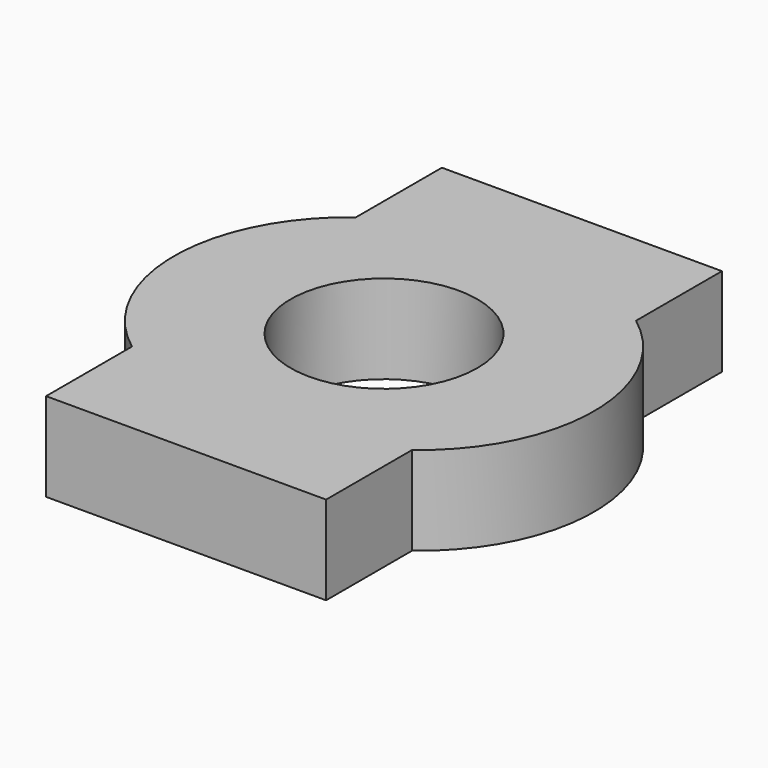
from build123d import *

# Parameters (mm, degrees)
SKETCH_R  = 2
PAD_DEPTH = 1.9


with BuildPart() as part:
    # Sketch → Pad (new body)
    with BuildSketch(Plane.XY):
        with BuildLine():
            ThreePointArc((3, -3), (4.5, 0), (3, 3))
            Line((3, 3), (3, 5.3))
            Line((-3, 5.3), (3, 5.3))
            Line((-3, 3), (-3, 5.3))
            ThreePointArc((-3, 3), (-4.5, 0), (-3, -3))
            Line((-3, -3), (-3, -5.3))
            Line((3, -5.3), (-3, -5.3))
            Line((3, -3), (3, -5.3))
        make_face()
        Circle(SKETCH_R, mode=Mode.SUBTRACT)
    extrude(amount=PAD_DEPTH)


solid = part.part
